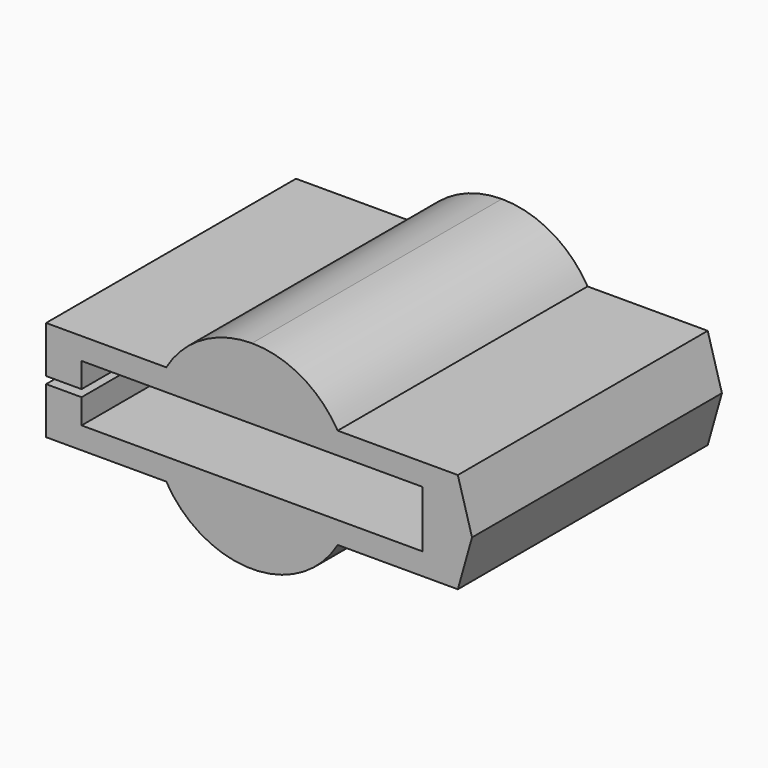
from build123d import *

# Parameters (mm, degrees)
F1_DEPTH = 11


with BuildPart() as f1:
    # F0 (on Front) → F1 (new body)
    with BuildSketch(Plane.XZ):
        with BuildLine():
            Line((7.75, 0), (7.25, 1.771262))
            Line((7.25, 1.771262), (3.018714, 1.771262))
            ThreePointArc((3.018714, 1.771262), (1.739337, 3.03722), (0, 3.5))
            ThreePointArc((0, 3.5), (-1.739337, 3.03722), (-3.018714, 1.771262))
            Line((-3.018714, 1.771262), (-7.25, 1.771262))
            Line((-7.25, 1.771262), (-7.25, 1))
            Line((-7.25, 1), (-7.25, 0.124682))
            Line((-7.25, 0.124682), (-6, 0.124682))
            Line((-6, 0.124682), (-6, 1))
            Line((-6, 1), (0, 1))
            Line((0, 1), (6, 1))
            Line((6, 1), (6, -1))
            Line((6, -1), (0, -1))
            Line((0, -1), (-6, -1))
            Line((-6, -1), (-6, -0.125318))
            Line((-6, -0.125318), (-7.25, -0.125318))
            Line((-7.25, -0.125318), (-7.25, -1.771262))
            Line((-7.25, -1.771262), (-3.018714, -1.771262))
            ThreePointArc((-3.018714, -1.771262), (0, -3.5), (3.018714, -1.771262))
            Line((3.018714, -1.771262), (7.25, -1.771262))
            Line((7.25, -1.771262), (7.75, 0))
        make_face()
    extrude(amount=F1_DEPTH)


with BuildPart() as f3:
    # F2 (on face) → F3 (revolve)
    with BuildSketch(Plane(origin=(0, 0, 1), x_dir=(1, 0, 0), z_dir=(0, 0, -1))):
        with BuildLine():
            Line((0, 5), (0, 5.5))
            Line((0, 5.5), (0, 6))
            ThreePointArc((0, 6), (-0.5, 5.5), (0, 5))
        make_face()
    revolve(axis=Axis((0, -3, 1), (0, -1, 0)))


solid = Compound([f1.part, f3.part])
